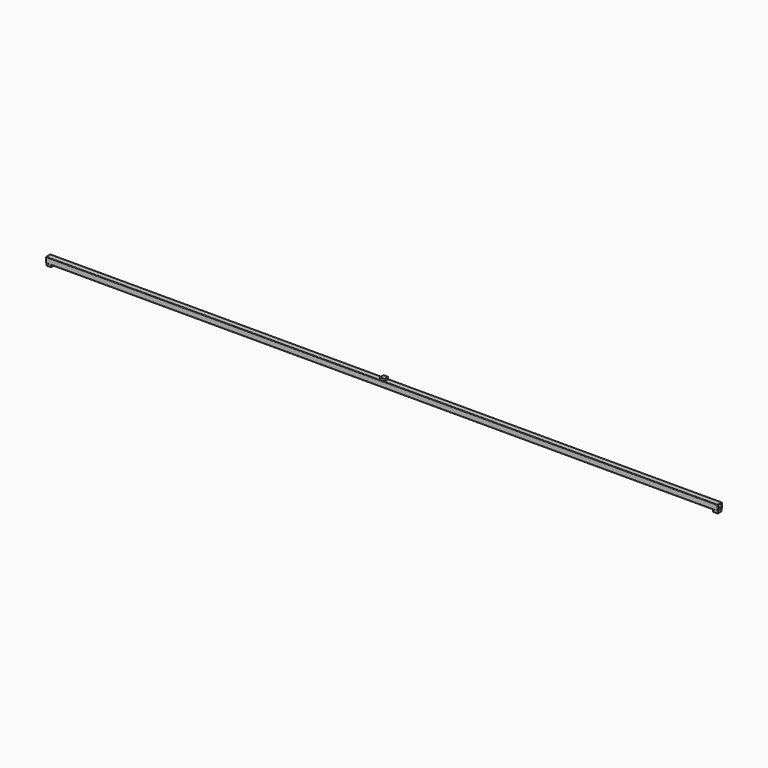
from build123d import *

# Parameters (mm, degrees)
F1_DEPTH = 1500
F2_W     = 21.117687
F2_H     = 21
F3_DEPTH = 10
F2_W_2   = 21
F4_DEPTH = 10
F5_W     = 20.59104
F5_H     = 21
F6_DEPTH = 10


with BuildPart() as f1:
    # F0 (on Right) → F1 (new body, symmetric)
    with BuildSketch(Plane.YZ):
        with BuildLine():
            ThreePointArc((12.5, 10.5), (11.914214, 11.914214), (10.5, 12.5))
            Line((10.5, 12.5), (-10.5, 12.5))
            ThreePointArc((-10.5, 12.5), (-11.914214, 11.914214), (-12.5, 10.5))
            Line((-12.5, 10.5), (-12.5, -10.5))
            ThreePointArc((-12.5, -10.5), (-11.914214, -11.914214), (-10.5, -12.5))
            Line((-10.5, -12.5), (10.5, -12.5))
            ThreePointArc((10.5, -12.5), (11.914214, -11.914214), (12.5, -10.5))
            Line((12.5, -10.5), (12.5, 10.5))
        make_face()
        with BuildLine():
            Line((-8.5, 10.5), (8.5, 10.5))
            ThreePointArc((8.5, 10.5), (9.914214, 9.914214), (10.5, 8.5))
            Line((10.5, 8.5), (10.5, -8.5))
            ThreePointArc((10.5, -8.5), (9.914214, -9.914214), (8.5, -10.5))
            Line((8.5, -10.5), (-8.5, -10.5))
            ThreePointArc((-8.5, -10.5), (-9.914214, -9.914214), (-10.5, -8.5))
            Line((-10.5, -8.5), (-10.5, 8.5))
            ThreePointArc((-10.5, 8.5), (-9.914214, 9.914214), (-8.5, 10.5))
        make_face(mode=Mode.SUBTRACT)
    extrude(amount=F1_DEPTH, both=True)

    # F2 (on face) → F3 (join)
    with BuildSketch(Plane(origin=(0, 0, -12.5), x_dir=(1, 0, 0), z_dir=(0, 0, -1))):
        with Locations((-1489.441157, 0)):
            Rectangle(F2_W, F2_H)
    extrude(amount=F3_DEPTH)

    # F2 (on face) → F4 (join)
    with BuildSketch(Plane(origin=(0, 0, -12.5), x_dir=(1, 0, 0), z_dir=(0, 0, -1))):
        with Locations((1489.5, 0)):
            Rectangle(F2_W_2, F2_H)
        with Locations((-1489.441157, 0)):
            Rectangle(F2_W, F2_H)
    extrude(amount=F4_DEPTH)

    # F5 (on face) → F6 (join)
    with BuildSketch(Plane.XY.offset(12.5)):
        Rectangle(F5_W, F5_H)
    extrude(amount=F6_DEPTH)


solid = f1.part
